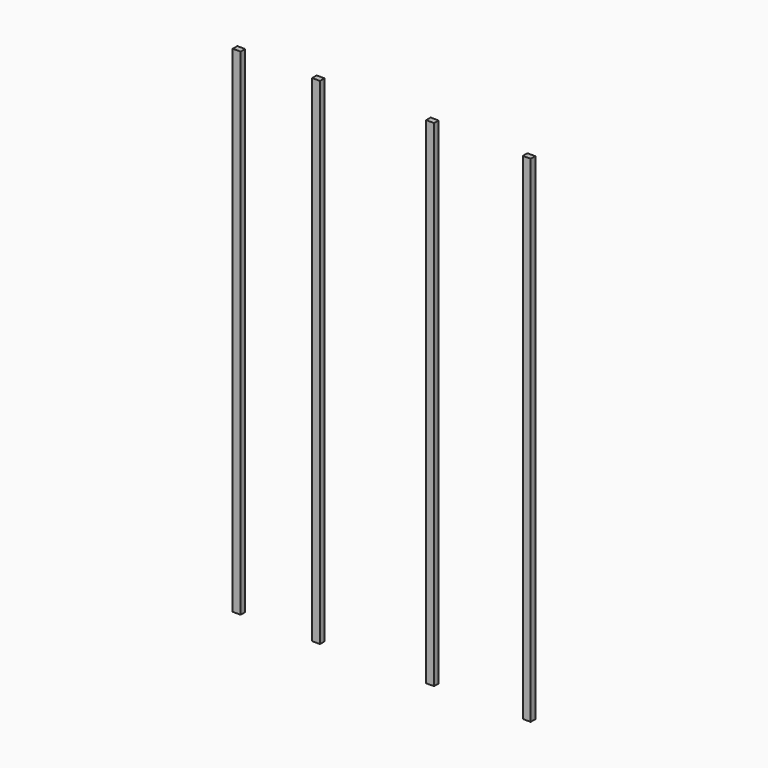
from build123d import *

# Parameters (mm, degrees)
F0_W     = 32
F0_H     = 23
F1_DEPTH = 2000


with BuildPart() as f1:
    # F0 (on Top) → F1 (new body)
    with BuildSketch(Plane.XY):
        with Locations((16, 11.5)):
            Rectangle(F0_W, F0_H)
    extrude(amount=F1_DEPTH)


with BuildPart() as f2_1:
    # F2: copy of F1
    add(f1.part.moved(Location((320, 0, 0))))


with BuildPart() as f3_1:
    # F3: copy of F2_1
    add(f2_1.part.moved(Location((460, 0, 0))))


with BuildPart() as f4_1:
    # F4: copy of F1
    add(f1.part.moved(Location((1170, 0, 0))))


solid = Compound([f1.part, f2_1.part, f3_1.part, f4_1.part])
